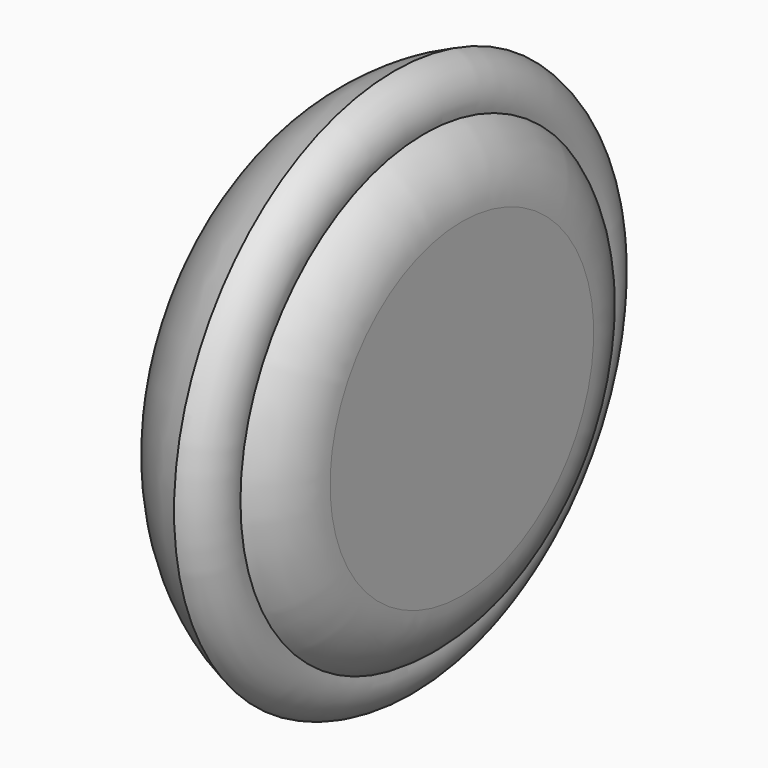
from build123d import *


with BuildPart() as f1:
    # F0 (on Front) → F1 (revolve)
    with BuildSketch(Plane.XZ):
        with BuildLine():
            Line((0, 8), (0, 0))
            Line((0, 0), (15, 0))
            Line((15, 0), (15, 13.156249))
            ThreePointArc((15, 13.156249), (14.196152, 16.156249), (12, 18.352402))
            ThreePointArc((12, 18.352402), (11.592545, 20.689596), (9.614835, 22))
            ThreePointArc((9.614835, 22), (2.635182, 16.491835), (0, 8))
        make_face()
    revolve(axis=Axis((7.5, 0, 0), (-1, 0, 0)))


solid = f1.part
